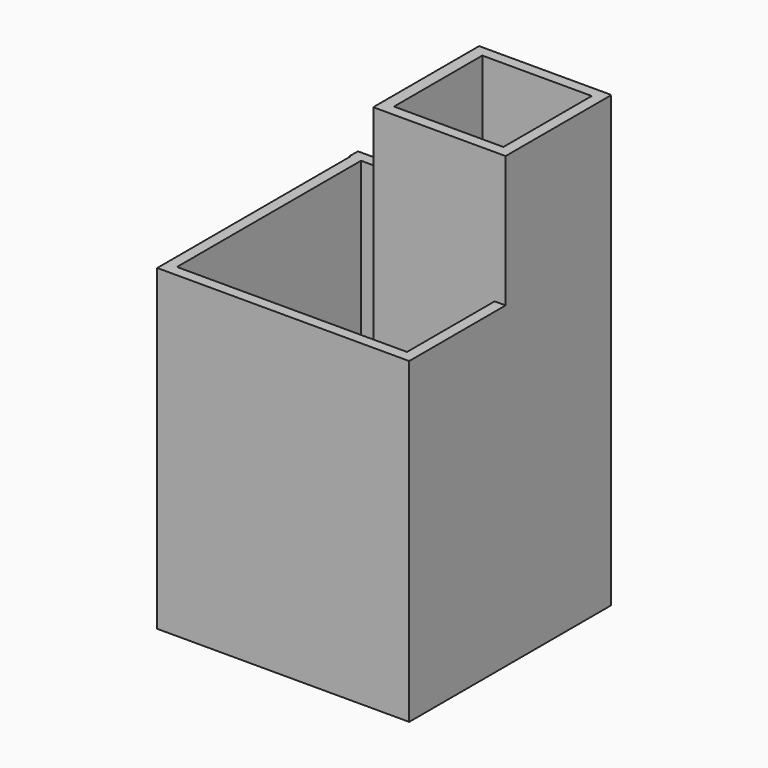
from build123d import *

# Parameters (mm, degrees)
F0_W      = 584.2
F0_H      = 584.2
F1_DEPTH  = 25.4
F2_W      = 25.4
F2_H      = 304.8
F3_DEPTH  = 1016
F4_W      = 304.8
F4_H      = 25.4
F5_DEPTH  = 1016
F6_W      = 27.716884
F6_H      = 304.8
F7_DEPTH  = 1016
F8_W      = 306.838674
F8_H      = 25.4
F9_DEPTH  = 1016
F10_W     = 25.4
F10_H     = 279.4
F11_DEPTH = 711.2
F12_W     = 584.2
F12_H     = 25.4
F13_DEPTH = 711.2
F14_W     = 25.4
F14_H     = 584.2
F15_DEPTH = 711.2
F16_W     = 279.4
F16_H     = 25.4
F17_DEPTH = 711.2


with BuildPart() as f1:
    # F0 (on Top) → F1 (new body)
    with BuildSketch(Plane.XY):
        with Locations((-12.97821, 67.926513)):
            Rectangle(F0_W, F0_H)
    extrude(amount=F1_DEPTH)

    # F2 (on face) → F3 (join)
    with BuildSketch(Plane.XY.offset(25.4)):
        with Locations((266.42179, 207.626513)):
            Rectangle(F2_W, F2_H)
    extrude(amount=F3_DEPTH)

    # F4 (on face) → F5 (join)
    with BuildSketch(Plane.XY.offset(25.4)):
        with Locations((124.683116, 349.342086)):
            Rectangle(F4_W, F4_H)
    extrude(amount=F5_DEPTH)

    # F6 (on face) → F7 (join)
    with BuildSketch(Plane.XY.offset(25.4)):
        with Locations((-13.858442, 207.626513)):
            Rectangle(F6_W, F6_H)
    extrude(amount=F7_DEPTH)

    # F8 (on face) → F9 (join)
    with BuildSketch(Plane.XY.offset(25.4)):
        with Locations((125.702453, 67.926513)):
            Rectangle(F8_W, F8_H)
    extrude(amount=F9_DEPTH)

    # F10 (on face) → F11 (join)
    with BuildSketch(Plane.XY.offset(25.4)):
        with Locations((266.42179, -84.473487)):
            Rectangle(F10_W, F10_H)
    extrude(amount=F11_DEPTH)

    # F12 (on face) → F13 (join)
    with BuildSketch(Plane.XY.offset(25.4)):
        with Locations((-12.97821, -211.473487)):
            Rectangle(F12_W, F12_H)
    extrude(amount=F13_DEPTH)

    # F14 (on face) → F15 (join)
    with BuildSketch(Plane.XY.offset(25.4)):
        with Locations((-292.37821, 67.926513)):
            Rectangle(F14_W, F14_H)
    extrude(amount=F15_DEPTH)

    # F16 (on face) → F17 (join)
    with BuildSketch(Plane.XY.offset(25.4)):
        with Locations((-167.416884, 347.326513)):
            Rectangle(F16_W, F16_H)
    extrude(amount=F17_DEPTH)


solid = f1.part
